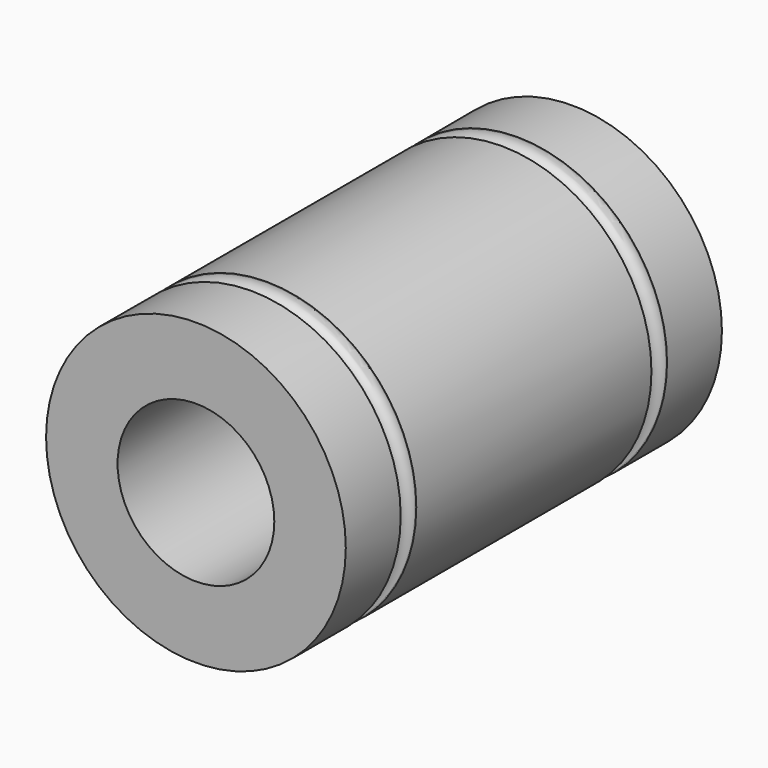
from build123d import *

# Parameters (mm, degrees)
F0_R     = 7.65
F1_DEPTH = 24
F2_R     = 4
F3_DEPTH = 25
F4_R     = 0.5


with BuildPart() as f1:
    # F0 (on Front) → F1 (new body)
    with BuildSketch(Plane.XZ):
        Circle(F0_R)
    extrude(amount=F1_DEPTH)

    # F2 (on face) → F3 (cut)
    with BuildSketch(Plane.XZ.offset(24)):
        Circle(F2_R)
    extrude(amount=-F3_DEPTH, mode=Mode.SUBTRACT)

    # F4 (on Right) → F6 (revolve, cut)
    with BuildSketch(Plane.YZ):
        with Locations((-20, 7.6)):
            Circle(F4_R)
        with Locations((-4, 7.6)):
            Circle(F4_R)
    revolve(axis=Axis((0, -7.984612, 0), (0, 1, 0)), mode=Mode.SUBTRACT)


solid = f1.part
